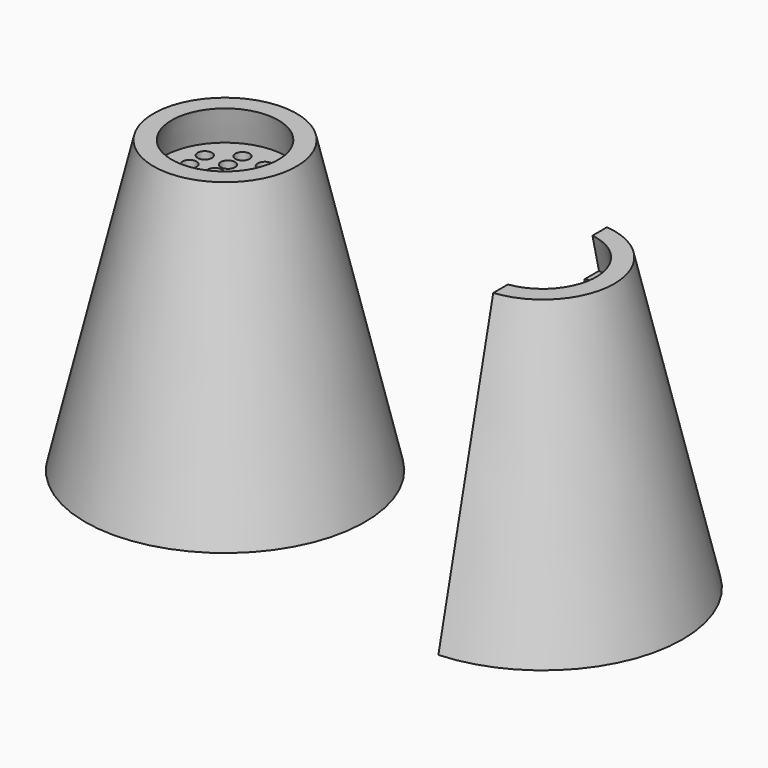
from build123d import *

# Parameters (mm, degrees)
F3_D     = 2.5
F3_DEPTH = 2000
F3_START = 2
F3_TIP   = 0.7510757738
F6_DEPTH = 61


with BuildPart() as f1:
    # F0 (on Right) → F1 (revolve)
    with BuildSketch(Plane.YZ):
        Polygon((-26.9896572456, 50.81), (-38.9396572456, 0), (-35.7646572456, 0), (-35.2942773991, 2), (-25.225796785, 44.81), (-23.8146572456, 50.81), align=None)
        Polygon((-25.225796785, 44.81), (-35.2942773991, 2), (-14.4896572456, 2), (-14.4896572456, 44.81), align=None)
    revolve(axis=Axis((0, -14.4896572456, 23.405), (0, 0, 1)))

    # F3
    # its depths count from where the whole tool has entered the part; down to there all is cleared
    with Locations(Plane(origin=(0, 0, 0), x_dir=(1, 0, 0), z_dir=(0, 0, -1)).offset(-F3_START)):
        with Locations((-6.5137860365, 10.772800073), (-6.5137860365, 14.1132026911), (-6.5137860365, 16.9525463134), (-2.3382815998, 16.9525463134), (-2.1554150153, 19.9589077383), (1.8372223713, 19.9589077383), (1.8372223713, 16.9525463134), (1.8372223713, 14.1132026911), (-2.3382815998, 13.779161498), (-2.3382815998, 10.9398206696), (-2.3382815998, 7.7664363198), (1.8372223713, 8.1004770473), (1.8372223713, 11.6238333285), (5.5116652511, 10.772800073), (5.5116652511, 14.1132026911), (5.5116652511, 16.9525463134)):
            Hole(F3_D / 2, depth=F3_DEPTH)
            with Locations((0, 0, -(F3_DEPTH + F3_TIP / 2))):  # 118° drill point
                Cone(0, F3_D / 2, F3_TIP, mode=Mode.SUBTRACT)


with BuildPart() as f4_1:
    # F4: copy of F1
    add(f1.part.moved(Location((55.5, 0, 0))))

    # F5 (on Top) → F6 (cut)
    with BuildSketch(Plane.XY):
        Polygon((30.1178526133, -44.6785725653), (56.7964240909, -44.3571470678), (56.7964240909, 18.9642868936), (23.0464246124, 18.9642868936), align=None)
    extrude(amount=F6_DEPTH, mode=Mode.SUBTRACT)


solid = Compound([f1.part, f4_1.part])
